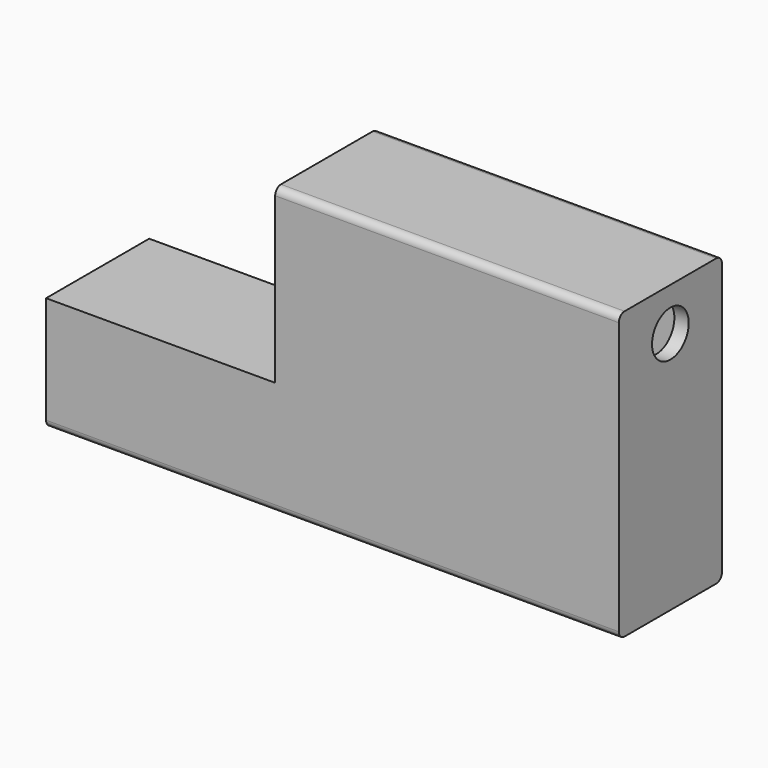
from build123d import *

# Parameters (mm, degrees)
F1_DEPTH = 1.5875
F3_DEPTH = 25.4
F4_R     = 5.08
F5_DEPTH = 76.201
F7_DEPTH = 1.5875
F8_R     = 1.5875


with BuildPart() as f1:
    # F0 (on Front) → F1 (new body)
    with BuildSketch(Plane.XZ):
        Polygon((0, 25.4), (0, 0), (127, 0), (127, 63.5), (50.8, 63.5), (50.8, 25.4), align=None)
    extrude(amount=F1_DEPTH)

    # F2 (on face) → F3 (join)
    with BuildSketch(Plane.XZ.offset(1.5875)):
        Polygon((0, 25.4), (0, 0), (127, 0), (127, 63.5), (50.8, 63.5), (50.8, 25.4), align=None)
        Polygon((3.175, 3.175), (3.175, 22.225), (53.975, 22.225), (53.975, 60.325), (73.025, 60.325), (77.584747, 60.325), (90.284747, 60.325), (93.287783, 60.325), (102.984747, 60.325), (105.971895, 60.325), (115.684747, 60.325), (118.814529, 60.325), (123.825, 60.325), (123.825, 3.175), (102.616596, 3.175), (100.162782, 3.175), (89.110495, 3.175), (86.656681, 3.175), (76.513289, 3.175), (74.059476, 3.175), (65.90214, 3.175), (63.5, 3.175), align=None, mode=Mode.SUBTRACT)
        with BuildLine():
            Line((67.925503, 36.5125), (63.5, 3.175))
            Line((63.5, 3.175), (65.90214, 3.175))
            Line((65.90214, 3.175), (70.238965, 35.844491))
            Line((70.238965, 35.844491), (74.666002, 45.491608))
            ThreePointArc((74.666002, 45.491608), (78.27898, 48.992347), (77.584747, 53.975))
            ThreePointArc((77.584747, 53.975), (78.58125, 57.15), (77.584747, 60.325))
            Line((77.584747, 60.325), (73.025, 60.325))
            ThreePointArc((73.025, 60.325), (76.2, 57.15), (73.025, 53.975))
            ThreePointArc((73.025, 53.975), (76.2, 50.8), (73.025, 47.625))
            Line((73.025, 47.625), (67.925503, 36.5125))
        make_face()
        with BuildLine():
            Line((85.762878, 50.224688), (74.059476, 3.175))
            Line((74.059476, 3.175), (76.513289, 3.175))
            Line((76.513289, 3.175), (88.07371, 49.649879))
            ThreePointArc((88.07371, 49.649879), (88.642464, 50.922399), (89.61611, 51.919797))
            Line((89.61611, 51.919797), (91.557136, 53.30824))
            ThreePointArc((91.557136, 53.30824), (93.71914, 56.4968), (93.287783, 60.325))
            Line((93.287783, 60.325), (90.284747, 60.325))
            ThreePointArc((90.284747, 60.325), (91.498769, 57.756738), (90.171744, 55.245))
            Line((90.171744, 55.245), (88.230718, 53.856557))
            ThreePointArc((88.230718, 53.856557), (86.672883, 52.260721), (85.762878, 50.224688))
        make_face()
        with BuildLine():
            Line((98.360084, 50.224688), (86.656681, 3.175))
            Line((86.656681, 3.175), (89.110495, 3.175))
            Line((89.110495, 3.175), (100.670916, 49.649879))
            ThreePointArc((100.670916, 49.649879), (101.25245, 50.941093), (102.250302, 51.945936))
            Line((102.250302, 51.945936), (104.178999, 53.292556))
            ThreePointArc((104.178999, 53.292556), (106.382228, 56.475619), (105.971895, 60.325))
            Line((105.971895, 60.325), (102.984747, 60.325))
            ThreePointArc((102.984747, 60.325), (104.171444, 57.742724), (102.815799, 55.245))
            Line((102.815799, 55.245), (100.887102, 53.898379))
            ThreePointArc((100.887102, 53.898379), (99.290538, 52.290632), (98.360084, 50.224688))
        make_face()
        with BuildLine():
            Line((111.866184, 50.224688), (100.162782, 3.175))
            Line((100.162782, 3.175), (102.616596, 3.175))
            Line((102.616596, 3.175), (114.177017, 49.649879))
            ThreePointArc((114.177017, 49.649879), (114.663698, 50.796556), (115.481858, 51.735887))
            Line((115.481858, 51.735887), (117.493279, 53.418586))
            ThreePointArc((117.493279, 53.418586), (119.385397, 56.636199), (118.814529, 60.325))
            Line((118.814529, 60.325), (115.684747, 60.325))
            ThreePointArc((115.684747, 60.325), (117.098281, 57.85533), (115.965351, 55.245))
            Line((115.965351, 55.245), (113.95393, 53.562301))
            ThreePointArc((113.95393, 53.562301), (112.644875, 52.059372), (111.866184, 50.224688))
        make_face()
    extrude(amount=F3_DEPTH)

    # F4 (on face) → F5 (cut, through all)
    with BuildSketch(Plane(origin=(50.8, 0, 0), x_dir=(0, -1, 0), z_dir=(-1, 0, 0))):
        with Locations((14.2875, 53.975)):
            Circle(F4_R)
    extrude(amount=-F5_DEPTH, mode=Mode.SUBTRACT)

    # F6 (on face) → F7 (join)
    with BuildSketch(Plane.XZ.offset(26.9875)):
        Polygon((0, 25.4), (0, 0), (127, 0), (127, 63.5), (50.8, 63.5), (50.8, 25.4), align=None)
    extrude(amount=F7_DEPTH)

    # F8
    f8_edges = [f1.edges().sort_by_distance(p)[0] for p in [
        (88.9, -28.575, 63.5),
        (88.9, 0, 63.5),
        (63.5, -28.575, 0),
        (63.5, 0, 0),
    ]]
    fillet(f8_edges, radius=F8_R)


solid = f1.part
